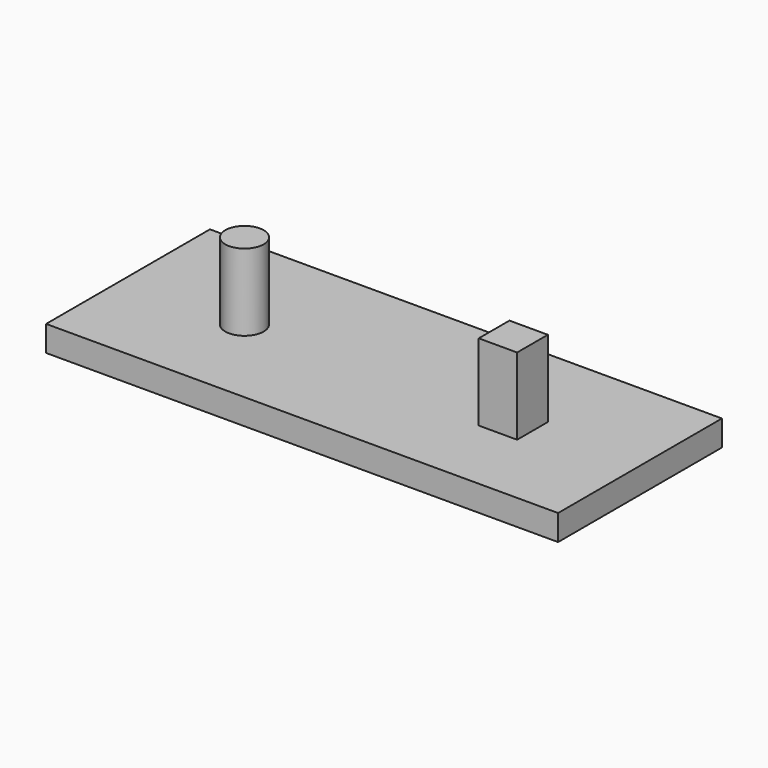
from build123d import *

# Parameters (mm, degrees)
F0_W     = 127
F0_H     = 50.8
F0_R     = 4.7625
F0_W_2   = 9.525
F0_H_2   = 9.525
F1_DEPTH = 6.35
F2_DEPTH = 25.4


with BuildPart() as f1:
    # F0 (on Top) → F1 (new body)
    with BuildSketch(Plane.XY):
        Rectangle(F0_W, F0_H)
        with Locations((-33.3375, -1.5875)):
            Circle(F0_R, mode=Mode.SUBTRACT)
        with Locations((33.3375, -1.5875)):
            Rectangle(F0_W_2, F0_H_2, mode=Mode.SUBTRACT)
    extrude(amount=F1_DEPTH)

    # F0 (on Top) → F2 (join)
    with BuildSketch(Plane.XY):
        with Locations((33.3375, -1.5875)):
            Rectangle(F0_W_2, F0_H_2)
        with Locations((-33.3375, -1.5875)):
            Circle(F0_R)
    extrude(amount=F2_DEPTH)


solid = f1.part
